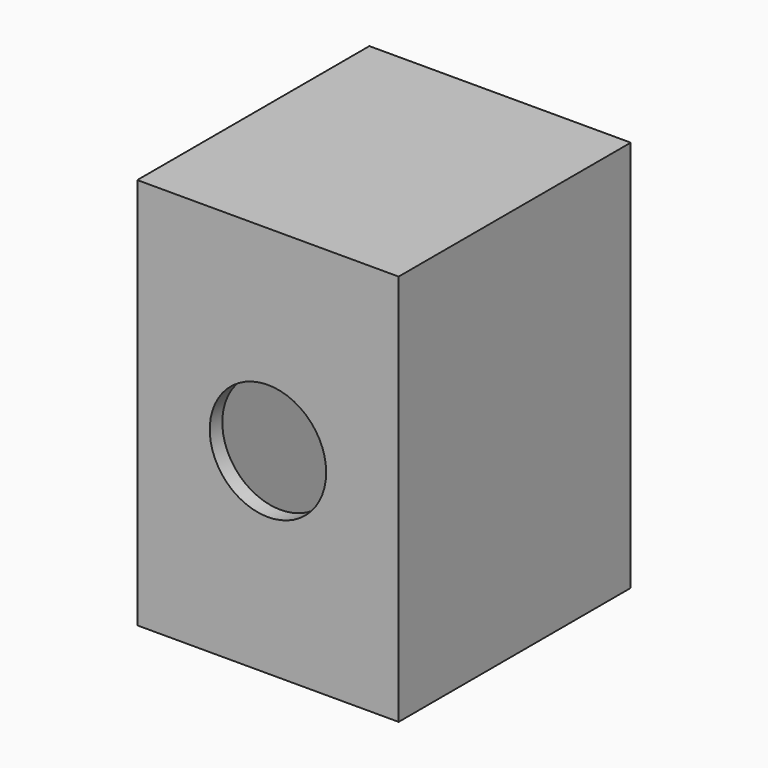
from build123d import *

# Parameters (mm, degrees)
F0_W     = 50.8
F0_H     = 76.2
F2_DEPTH = 50.8
F3_W     = 50.8
F3_H     = 76.2
F4_DEPTH = 2.54
F5_T     = -2.54
F6_W     = 50.8
F6_H     = 76.2
F6_W_2   = 45.72
F6_H_2   = 71.12
F6_R     = 11.312852
F7_DEPTH = 3.048


with BuildPart() as f2:
    # F0 (on Front) → F2 (new body)
    with BuildSketch(Plane.XZ):
        Rectangle(F0_W, F0_H)
    extrude(amount=F2_DEPTH)

    # F3 (on Front) → F4 (join)
    with BuildSketch(Plane.XZ):
        Rectangle(F3_W, F3_H)
    extrude(amount=-F4_DEPTH)

    # F5
    f5_openings = [f2.faces().sort_by_distance(p)[0] for p in [
        (0, -50.8, 0),
    ]]
    offset(amount=F5_T, openings=f5_openings)

    # F6 (on offset) → F7 (join)
    with BuildSketch(Plane.XZ.offset(50.8)):
        Rectangle(F6_W, F6_H)
        Rectangle(F6_W_2, F6_H_2, mode=Mode.SUBTRACT)
        Rectangle(F6_W_2, F6_H_2)
        Circle(F6_R, mode=Mode.SUBTRACT)
    extrude(amount=F7_DEPTH)


solid = f2.part
